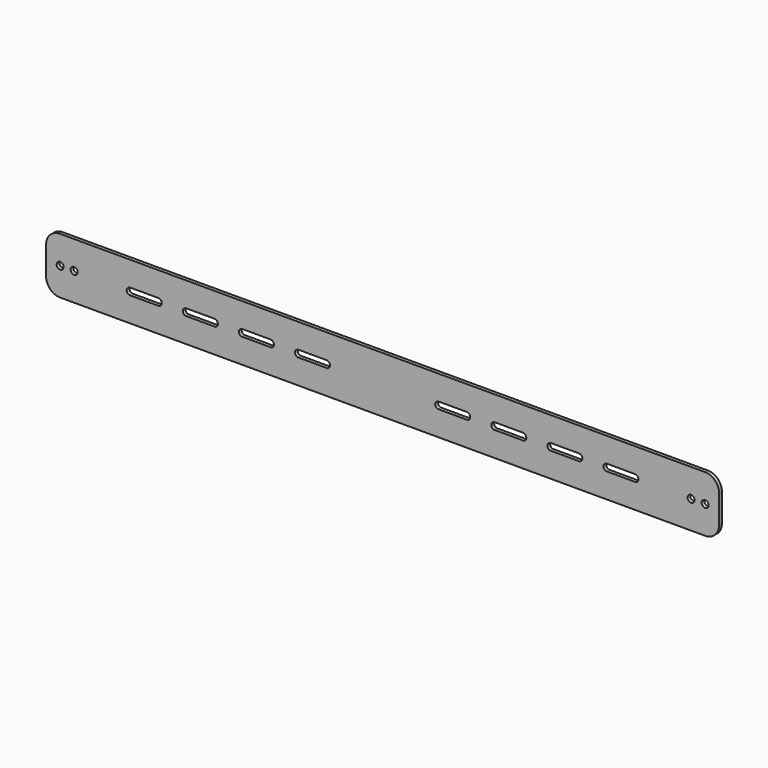
from build123d import *

# Parameters (mm, degrees)
F0_R     = 3.175
F0_W     = 254
F0_H     = 50.8
F1_DEPTH = 3.175


with BuildPart() as f1:
    # F0 (on Front) → F1 (new body)
    with BuildSketch(Plane.XZ):
        with BuildLine():
            Line((-459.8605954945, 52.8744922407), (-497.9605954945, 52.8744922407))
            ThreePointArc((-497.9605954945, 52.8744922407), (-506.9408516156, 49.1547483618), (-510.6605954945, 40.1744922407))
            Line((-510.6605954945, 40.1744922407), (-510.6605954945, 14.7744922407))
            ThreePointArc((-510.6605954945, 14.7744922407), (-506.9408516156, 5.7942361196), (-497.9605954945, 2.0744922407))
            Line((-497.9605954945, 2.0744922407), (-459.8605954945, 2.0744922407))
            Line((-459.8605954945, 2.0744922407), (-459.8605954945, 52.8744922407))
        make_face()
        with Locations((-497.9605954945, 27.4744922407)):
            Circle(F0_R, mode=Mode.SUBTRACT)
        with Locations((-485.2605954945, 27.4744922407)):
            Circle(F0_R, mode=Mode.SUBTRACT)
        with Locations((-332.8605954945, 27.4744922407)):
            Rectangle(F0_W, F0_H)
        with BuildLine():
            Line((-408.1328818156, 24.4380515069), (-433.5328818156, 24.4380515069))
            Line((-433.5328818156, 24.4380515069), (-435.3883091734, 24.4380515069))
            ThreePointArc((-435.3883091734, 24.4380515069), (-437.6007646245, 27.943494197), (-434.4605954945, 30.6494922407))
            ThreePointArc((-434.4605954945, 30.6494922407), (-434.3869820773, 30.6486387504), (-434.3134082371, 30.6460787382))
            Line((-434.3134082371, 30.6460787382), (-408.8804006639, 30.6443747027))
            ThreePointArc((-408.8804006639, 30.6443747027), (-405.908377669, 27.8541602283), (-408.1328818156, 24.4380515069))
        make_face(mode=Mode.SUBTRACT)
        with BuildLine():
            ThreePointArc((-358.0297927088, 30.640967664), (-355.1070526635, 27.8281250553), (-357.3345836396, 24.4380515069))
            Line((-357.3345836396, 24.4380515069), (-384.5883091734, 24.4380515069))
            ThreePointArc((-384.5883091734, 24.4380515069), (-386.814424652, 27.840534104), (-383.8681811751, 30.6426988604))
            Line((-383.8681811751, 30.6426988604), (-358.0297927088, 30.640967664))
        make_face(mode=Mode.SUBTRACT)
        with BuildLine():
            Line((-306.5328818156, 24.4380515069), (-333.7883091734, 24.4380515069))
            ThreePointArc((-333.7883091734, 24.4380515069), (-336.017034447, 27.8173014279), (-333.1148146381, 30.639298337))
            Line((-333.1148146381, 30.639298337), (-307.4605954945, 30.6375794801))
            Line((-307.4605954945, 30.6375794801), (-307.1856033606, 30.6375610554))
            ThreePointArc((-307.1856033606, 30.6375610554), (-304.3030481903, 27.8069377573), (-306.5328818156, 24.4380515069))
        make_face(mode=Mode.SUBTRACT)
        with BuildLine():
            Line((-255.7328818156, 24.4380515069), (-282.9883091734, 24.4380515069))
            ThreePointArc((-282.9883091734, 24.4380515069), (-285.2191021973, 27.7976955955), (-282.354096633, 30.635897321))
            Line((-282.354096633, 30.635897321), (-256.3488959982, 30.634154948))
            ThreePointArc((-256.3488959982, 30.634154948), (-253.5011713828, 27.7886009511), (-255.7328818156, 24.4380515069))
        make_face(mode=Mode.SUBTRACT)
        with Locations((-78.8605954945, 27.4744922407)):
            Rectangle(F0_W, F0_H)
        with BuildLine():
            Line((-128.7328818156, 24.4380515069), (-155.9883091734, 24.4380515069))
            ThreePointArc((-155.9883091734, 24.4380515069), (-158.2200196063, 27.7886009511), (-155.3722949908, 30.634154948))
            Line((-155.3722949908, 30.634154948), (-129.367094356, 30.635897321))
            ThreePointArc((-129.367094356, 30.635897321), (-126.5020887917, 27.7976955955), (-128.7328818156, 24.4380515069))
        make_face(mode=Mode.SUBTRACT)
        with BuildLine():
            Line((-77.9328818156, 24.4380515069), (-105.1883091734, 24.4380515069))
            ThreePointArc((-105.1883091734, 24.4380515069), (-107.4181427987, 27.8069377573), (-104.5355876284, 30.6375610554))
            Line((-104.5355876284, 30.6375610554), (-104.2605954945, 30.6375794801))
            Line((-104.2605954945, 30.6375794801), (-78.606376351, 30.639298337))
            ThreePointArc((-78.606376351, 30.639298337), (-75.704156542, 27.8173014279), (-77.9328818156, 24.4380515069))
        make_face(mode=Mode.SUBTRACT)
        with BuildLine():
            Line((-27.1328818156, 24.4380515069), (-54.3866073494, 24.4380515069))
            ThreePointArc((-54.3866073494, 24.4380515069), (-56.6141383255, 27.8281250553), (-53.6913982803, 30.640967664))
            Line((-53.6913982803, 30.640967664), (-27.8530098139, 30.6426988604))
            ThreePointArc((-27.8530098139, 30.6426988604), (-24.9067663371, 27.840534104), (-27.1328818156, 24.4380515069))
        make_face(mode=Mode.SUBTRACT)
        with BuildLine():
            Line((-2.8407903251, 30.6443747027), (22.592217248, 30.6460787382))
            ThreePointArc((22.592217248, 30.6460787382), (22.6657910883, 30.6486387504), (22.7394045055, 30.6494922407))
            ThreePointArc((22.7394045055, 30.6494922407), (25.8795736355, 27.943494197), (23.6671181844, 24.4380515069))
            Line((23.6671181844, 24.4380515069), (21.8116908266, 24.4380515069))
            Line((21.8116908266, 24.4380515069), (-3.5883091734, 24.4380515069))
            ThreePointArc((-3.5883091734, 24.4380515069), (-5.81281332, 27.8541602283), (-2.8407903251, 30.6443747027))
        make_face(mode=Mode.SUBTRACT)
        with BuildLine():
            Line((86.2394045055, 52.8744922407), (48.1394045055, 52.8744922407))
            Line((48.1394045055, 52.8744922407), (48.1394045055, 2.0744922407))
            Line((48.1394045055, 2.0744922407), (86.2394045055, 2.0744922407))
            ThreePointArc((86.2394045055, 2.0744922407), (95.2196606266, 5.7942361196), (98.9394045055, 14.7744922407))
            Line((98.9394045055, 14.7744922407), (98.9394045055, 40.1744922407))
            ThreePointArc((98.9394045055, 40.1744922407), (95.2196606266, 49.1547483618), (86.2394045055, 52.8744922407))
        make_face()
        with Locations((73.5394045055, 27.4744922407)):
            Circle(F0_R, mode=Mode.SUBTRACT)
        with Locations((86.2394045055, 27.4744922407)):
            Circle(F0_R, mode=Mode.SUBTRACT)
    extrude(amount=F1_DEPTH)


solid = f1.part
